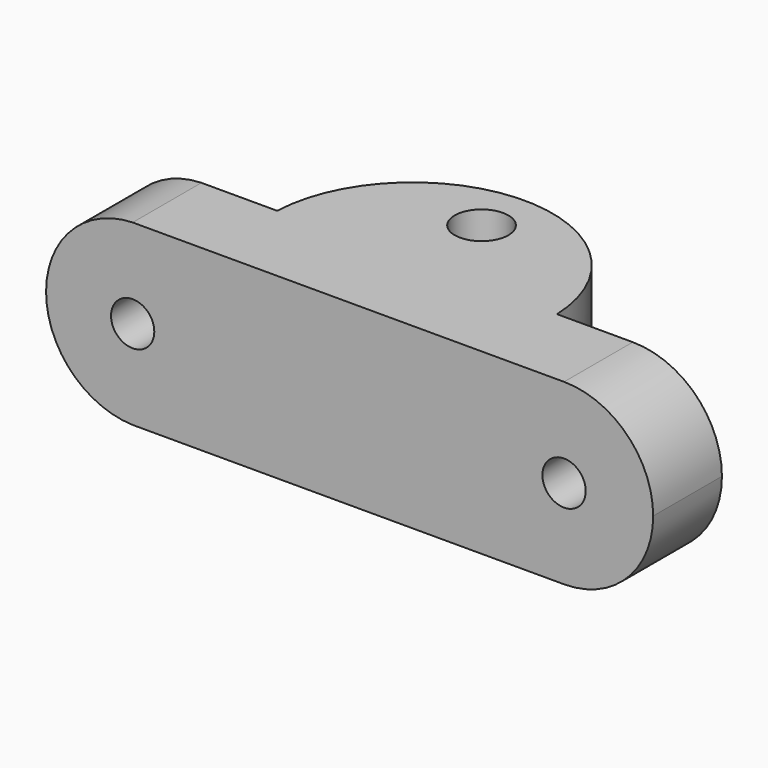
from build123d import *

# Parameters (mm, degrees)
F1_DEPTH      = 8
F2_R          = 2.5
F3_DEPTH      = 8.296516
F3_DEPTH_BACK = 8.296516


with BuildPart() as f1:
    # F0 (on Front) → F1 (new body)
    with BuildSketch(Plane.XZ):
        with BuildLine():
            Line((20.080229, 8.296516), (-20.080229, 8.296516))
            ThreePointArc((-20.080229, 8.296516), (-25.793151, 5.783339), (-28.139749, 0))
            Line((-28.139749, 0), (-22.095229, 0))
            ThreePointArc((-22.095229, 0), (-20.080229, 2.015), (-18.065229, 0))
            Line((-18.065229, 0), (18.065229, 0))
            ThreePointArc((18.065229, 0), (20.080229, 2.015), (22.095229, 0))
            Line((22.095229, 0), (28.376744, 0))
            ThreePointArc((28.376744, 0), (25.946751, 5.866522), (20.080229, 8.296516))
        make_face()
        with BuildLine():
            Line((-22.095229, 0), (-28.139749, 0))
            ThreePointArc((-28.139749, 0), (-25.793151, -5.783339), (-20.080229, -8.296516))
            Line((-20.080229, -8.296516), (20.080229, -8.296516))
            ThreePointArc((20.080229, -8.296516), (25.946751, -5.866522), (28.376744, 0))
            Line((28.376744, 0), (22.095229, 0))
            ThreePointArc((22.095229, 0), (20.080229, -2.015), (18.065229, 0))
            Line((18.065229, 0), (-18.065229, 0))
            ThreePointArc((-18.065229, 0), (-20.080229, -2.015), (-22.095229, 0))
        make_face()
    extrude(amount=F1_DEPTH)

    # F2 (on Top) → F3 (join, two sides)
    with BuildSketch(Plane.XY) as f3_sk:
        with BuildLine():
            Line((-13.025831, 0), (13.025831, 0))
            ThreePointArc((13.025831, 0), (0, 12.5), (-13.025831, 0))
        make_face()
        with Locations((0, 7.5)):
            Circle(F2_R, mode=Mode.SUBTRACT)
    extrude(amount=F3_DEPTH)
    extrude(f3_sk.sketch, amount=-F3_DEPTH_BACK)


solid = f1.part
